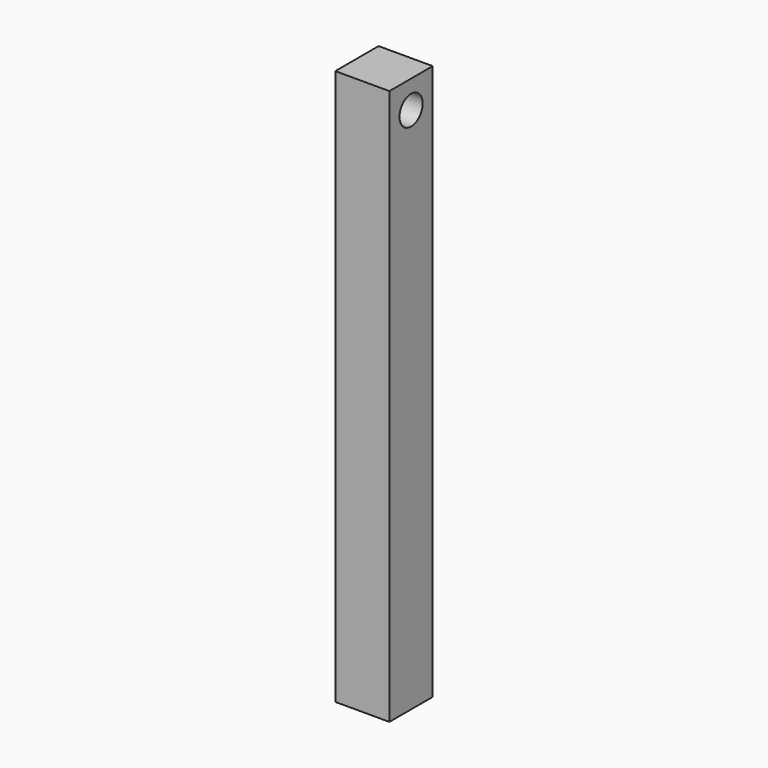
from build123d import *

# Parameters (mm, degrees)
F0_W     = 40
F0_H     = 100
F1_DEPTH = 40
F2_DEPTH = 100
F3_DEPTH = 20.5
F4_DEPTH = 20.5
F6_DEPTH = 25


with BuildPart() as f1:
    # F0 (on Front) → F1 (new body)
    with BuildSketch(Plane.XZ):
        Rectangle(F0_W, F0_H)
    extrude(amount=F1_DEPTH)

    # F2 (add): a face of the model
    f2_faces = [f1.faces().sort_by_distance(p)[0] for p in [
        (0, -20, 50),
    ]]
    extrude(f2_faces, amount=F2_DEPTH)

    # F3 (cut): a face of the model
    f3_faces = [f1.faces().sort_by_distance(p)[0] for p in [
        (20, -20, 50),
    ]]
    extrude(f3_faces, amount=-F3_DEPTH, mode=Mode.SUBTRACT)

    # F4 (cut): a face of the model
    f4_faces = [f1.faces().sort_by_distance(p)[0] for p in [
        (-10.25, -40, 50),
    ]]
    extrude(f4_faces, amount=-F4_DEPTH, mode=Mode.SUBTRACT)

    # F5 (on face) → F6 (cut)
    with BuildSketch(Plane.YZ.offset(-0.5)):
        with BuildLine():
            ThreePointArc((-4.5432102773, 140), (-9.75, 145.2067897227), (-14.9567897227, 140))
            ThreePointArc((-14.9567897227, 140), (-9.75, 134.7932102773), (-4.5432102773, 140))
        make_face()
    extrude(amount=-F6_DEPTH, mode=Mode.SUBTRACT)


solid = f1.part
